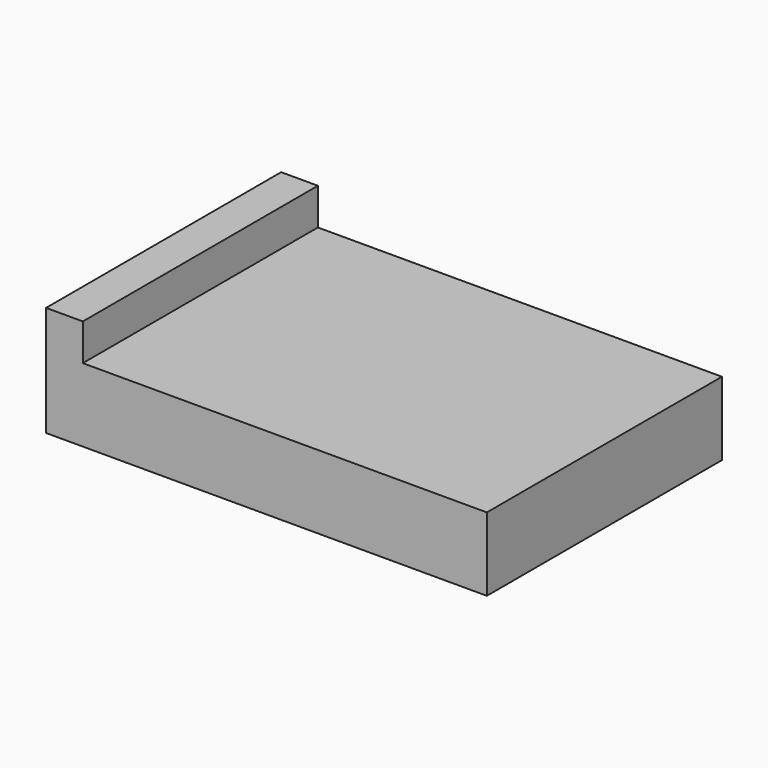
from build123d import *

# Parameters (mm, degrees)
F0_W     = 6.35
F0_H     = 12.7
F0_H_2   = 6.35
F0_W_2   = 69.85
F1_DEPTH = 25.4
F2_DEPTH = 25.4


with BuildPart() as f1:
    # F0 (on Front) → F1 (new body)
    with BuildSketch(Plane.XZ):
        with Locations((-34.925, 0)):
            Rectangle(F0_W, F0_H)
        with Locations((-34.925, 9.525)):
            Rectangle(F0_W, F0_H_2)
        with Locations((3.175, 0)):
            Rectangle(F0_W_2, F0_H)
    extrude(amount=F1_DEPTH)

    # F0 (on Front) + F1_face (on face) → F2 (join)
    with BuildSketch(Plane.XZ):
        with Locations((-34.925, 9.525)):
            Rectangle(F0_W, F0_H_2)
        with Locations((-34.925, 0)):
            Rectangle(F0_W, F0_H)
        with Locations((3.175, 0)):
            Rectangle(F0_W_2, F0_H)
    with BuildSketch(Plane(origin=(-1.397, -25.4, 0.381), x_dir=(1, 0, 0), z_dir=(0, -1, 0))):
        Polygon((-36.703, 12.319), (-36.703, -6.731), (39.497, -6.731), (39.497, 5.969), (-30.353, 5.969), (-30.353, 12.319), align=None)
    extrude(amount=F2_DEPTH)


solid = f1.part
